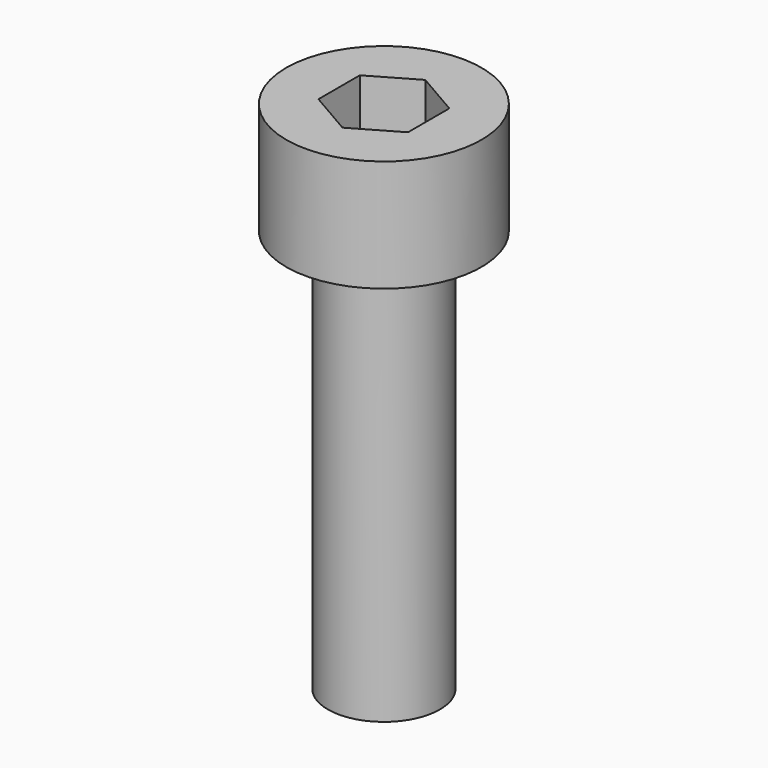
from build123d import *

# Parameters (mm, degrees)
CYLINDER015_R                      = 2.5
CYLINDER015_DEPTH                  = 23
CYLINDER014_R                      = 4.36
CYLINDER014_DEPTH                  = 5
FUSION001018017018_PLACEMENT_ANGLE = 180
POCKET002018004_DEPTH              = 2.5


with BuildPart() as cylinder015:
    # Cylinder015 → Cylinder015 (new body)
    with BuildSketch(Plane.XY):
        Circle(CYLINDER015_R)
    extrude(amount=CYLINDER015_DEPTH)


with BuildPart() as obj1:
    # Cylinder014 → Cylinder014 (new body)
    with BuildSketch(Plane.XY):
        Circle(CYLINDER014_R)
    extrude(amount=CYLINDER014_DEPTH)

    # Fusion001018017018: union Cylinder015
    add(cylinder015.part)


with BuildPart() as obj1_1:
    # Fusion001018017018 placement: moved
    add(obj1.part.rotate(Axis((0, 0, 0), (0, 1, 0)), FUSION001018017018_PLACEMENT_ANGLE))

    # Sketch020 → Pocket002018004 (cut)
    with BuildSketch(Plane(origin=(0, 0, 0), x_dir=(-1, 0, 0), z_dir=(0, 0, 1))):
        Polygon((2, -1.154701), (2, 1.154701), (0, 2.309401), (-2, 1.154701), (-2, -1.154701), (0, -2.309401), align=None)
    extrude(amount=-POCKET002018004_DEPTH, mode=Mode.SUBTRACT)


solid = obj1_1.part
